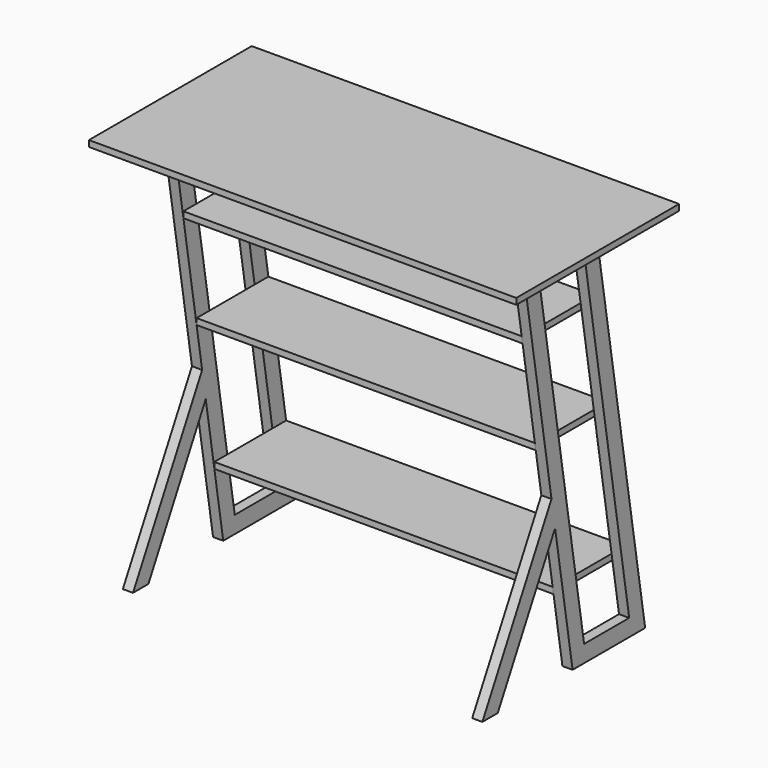
from build123d import *

# Parameters (mm, degrees)
F2_DEPTH = 30
F3_W     = 630
F3_H     = 18
F4_DEPTH = 600
F5_W     = 264.534249
F5_H     = 18
F6_DEPTH = 500


with BuildPart() as f2:
    # F1 (on offset) → F2 (new body)
    with BuildSketch(Plane.YZ.offset(500)):
        Polygon((-543.262288, 0), (-331.96829, 393.950819), (-267.480748, 0), (0, 0), (-182.519252, 1115), (-450, 1115), (-345.235586, 475), (-600, 0), align=None)
        Polygon((-225, 50), (-391.149812, 1065), (-225, 1065), (-58.850188, 50), align=None, mode=Mode.SUBTRACT)
    extrude(amount=F2_DEPTH)

    # F3 (on Front) → F4 (join)
    with BuildSketch(Plane.XZ):
        with Locations((315, 1124)):
            Rectangle(F3_W, F3_H)
    extrude(amount=F4_DEPTH)

    # F5 (on Right) → F6 (join, through all)
    with BuildSketch(Plane.YZ):
        with Locations((-282.047497, 906)):
            Rectangle(F5_W, F5_H)
        with Locations((-233.430262, 609)):
            Rectangle(F5_W, F5_H)
        with Locations((-167.952503, 209)):
            Rectangle(F5_W, F5_H)
    extrude(amount=F6_DEPTH)

    # F7: F2 across plane


with BuildPart() as f2_1:
    add(f2.part)
    add(f2.part.mirror(Plane.YZ))


solid = f2_1.part
